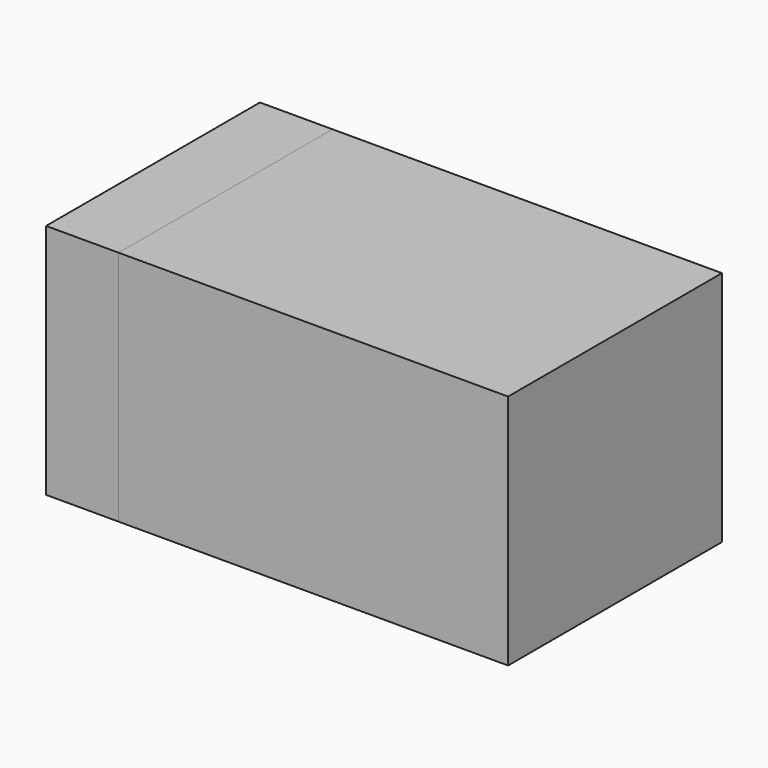
from build123d import *

# Parameters (mm, degrees)
SKETCH_W     = 0.74
SKETCH_H     = 0.508
PAD_DEPTH    = 0.45
SKETCH001_W  = 0.138
SKETCH001_H  = 0.508
PAD001_DEPTH = 0.45


with BuildPart() as body:
    # Sketch → Pad (new body)
    with BuildSketch(Plane.XY):
        Rectangle(SKETCH_W, SKETCH_H)
    extrude(amount=PAD_DEPTH)


with BuildPart() as body001:
    # Sketch001 → Pad001 (new body)
    with BuildSketch(Plane.XY):
        with Locations((0.439, 0)):
            Rectangle(SKETCH001_W, SKETCH001_H)
    extrude(amount=PAD001_DEPTH)


with BuildPart() as part_mirroring:
    # Part__Mirroring: instance of Body001
    add(body001.part.mirror(Plane(origin=(0, 0, 0), x_dir=(0, -1, 0), z_dir=(1, 0, 0))))


solid = Compound([body.part, part_mirroring.part])
